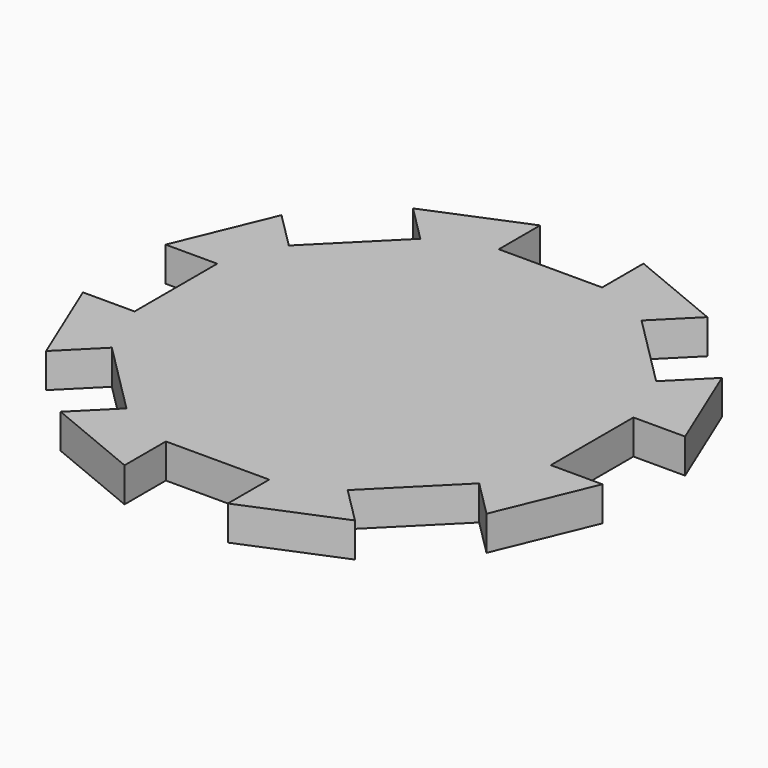
from build123d import *

# Parameters (mm, degrees)
F1_DEPTH      = 2.1166666667
F1_DEPTH_BACK = 2.1166666667


with BuildPart() as f1:
    # F0 (on Top) → F1 (new body, two sides)
    with BuildSketch(Plane.XY) as f1_sk:
        Polygon((-31.923605775, 6.35), (-25.573605775, 6.35), (-25.573605775, -6.35), (-31.923605775, -6.35), (-27.063526184, -18.0832700629), (-22.5733981234, -13.5931420024), (-13.5931420024, -22.5733981234), (-18.0832700629, -27.063526184), (-6.35, -31.923605775), (-6.35, -25.573605775), (6.35, -25.573605775), (6.35, -31.923605775), (18.0832700629, -27.063526184), (13.5931420024, -22.5733981234), (22.5733981234, -13.5931420024), (27.063526184, -18.0832700629), (31.923605775, -6.35), (25.573605775, -6.35), (25.573605775, 6.35), (31.923605775, 6.35), (27.063526184, 18.0832700629), (22.5733981234, 13.5931420024), (13.5931420024, 22.5733981234), (18.0832700629, 27.063526184), (6.35, 31.923605775), (6.35, 25.573605775), (-6.35, 25.573605775), (-6.35, 31.923605775), (-18.0832700629, 27.063526184), (-13.5931420024, 22.5733981234), (-22.5733981234, 13.5931420024), (-27.063526184, 18.0832700629), align=None)
    extrude(amount=-F1_DEPTH)
    extrude(f1_sk.sketch, amount=F1_DEPTH_BACK)


solid = f1.part
